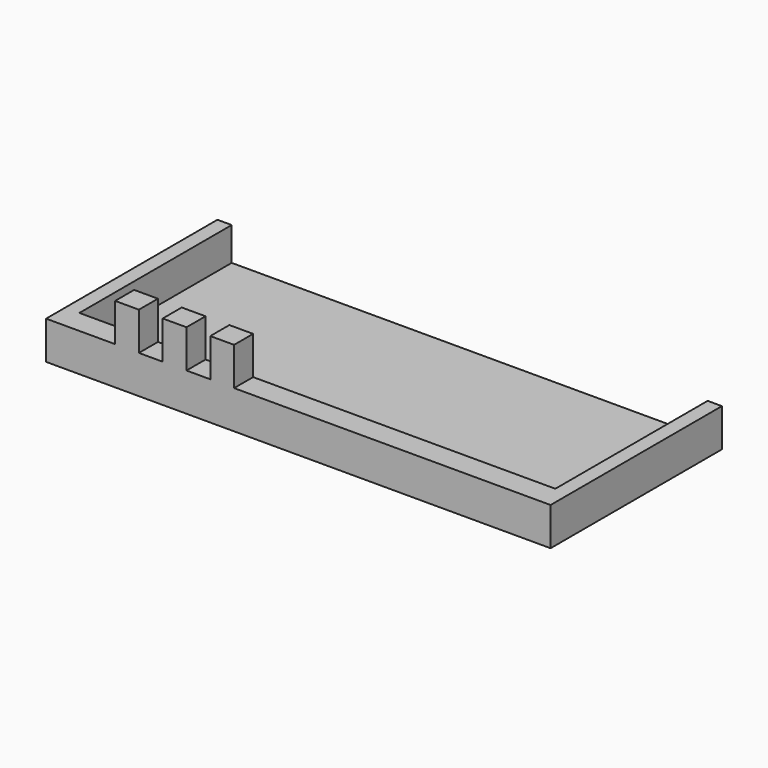
from build123d import *

# Parameters (mm, degrees)
SKETCH_W     = 53
SKETCH_H     = 22.5
PAD_DEPTH    = 4
SKETCH001_W  = 50
SKETCH001_H  = 20
POCKET_DEPTH = 3.5
SKETCH002_W  = 2.5
SKETCH002_H  = 2.5
PAD001_DEPTH = 4


with BuildPart() as part:
    # Sketch → Pad (new body)
    with BuildSketch(Plane.XY):
        Rectangle(SKETCH_W, SKETCH_H)
    extrude(amount=PAD_DEPTH)

    # Sketch001 (on Face6 of Pad) → Pocket (cut)
    with BuildSketch(Plane.XY.offset(4)):
        with Locations((0, 1.25)):
            Rectangle(SKETCH001_W, SKETCH001_H)
    extrude(amount=-POCKET_DEPTH, mode=Mode.SUBTRACT)

    # Sketch002 (on Face4 of Pocket) → Pad001 (join)
    with BuildSketch(Plane.XY.offset(4)):
        with Locations((-18, -10)):
            Rectangle(SKETCH002_W, SKETCH002_H)
        with Locations((-13, -10)):
            Rectangle(SKETCH002_W, SKETCH002_H)
        with Locations((-8, -10)):
            Rectangle(SKETCH002_W, SKETCH002_H)
    extrude(amount=PAD001_DEPTH)


with BuildPart() as part_1:
    # Body placement: moved
    add(part.part.moved(Location((0, -10, 0))))


solid = part_1.part
